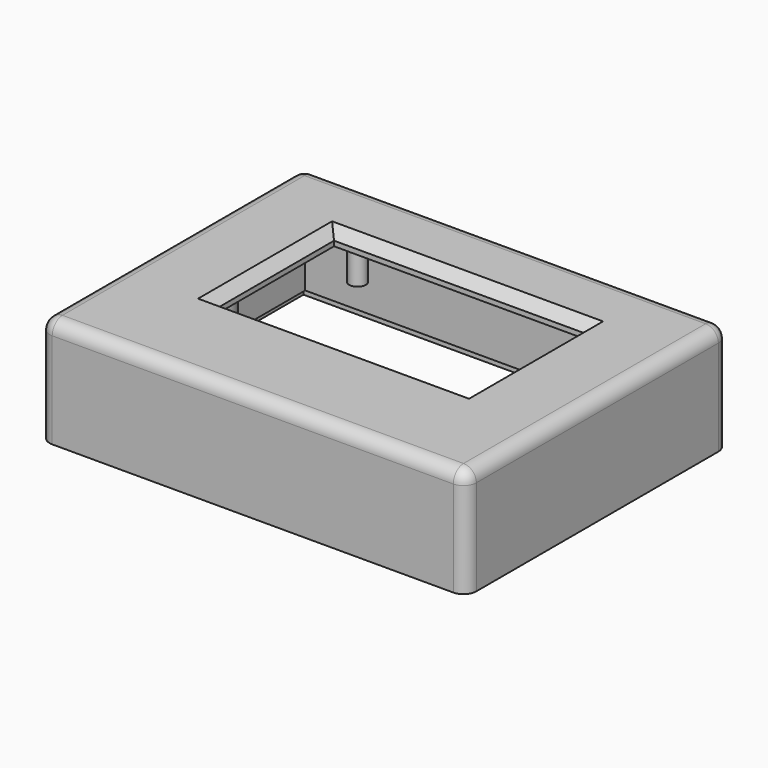
from build123d import *

# Parameters (mm, degrees)
F0_W      = 43.3
F0_H      = 33.3
F1_DEPTH  = 10
F2_W      = 40
F2_H      = 30
F3_DEPTH  = 8.5
F4_W      = 25.5
F4_H      = 15
F5_DEPTH  = 25
F4_R      = 0.85
F6_DEPTH  = 4
F7_W      = 43.3
F7_H      = 33.3
F7_W_2    = 41.7
F7_H_2    = 31.7
F8_DEPTH  = 1
F9_R      = 2
F9_R_2    = 1
F10_DEPTH = 5
F12_SIZE  = 1
F13_R     = 1.3


with BuildPart() as f1:
    # F0 (on Top) → F1 (new body)
    with BuildSketch(Plane.XY):
        Rectangle(F0_W, F0_H)
    extrude(amount=F1_DEPTH)

    # F2 (on face) → F3 (cut)
    with BuildSketch(Plane.XY):
        Rectangle(F2_W, F2_H)
    extrude(amount=F3_DEPTH, mode=Mode.SUBTRACT)

    # F4 (on face) → F5 (cut)
    with BuildSketch(Plane(origin=(0, 0, 8.5), x_dir=(1, 0, 0), z_dir=(0, 0, -1))):
        with Locations((0, -2.1)):
            Rectangle(F4_W, F4_H)
    extrude(amount=-F5_DEPTH, mode=Mode.SUBTRACT)

    # F4 (on face) → F6 (join)
    with BuildSketch(Plane(origin=(0, 0, 8.5), x_dir=(1, 0, 0), z_dir=(0, 0, -1))):
        with Locations((12.2893061021, 12)):
            Circle(F4_R)
        with Locations((-12.2893061021, 12)):
            Circle(F4_R)
        with Locations((-12.2893061021, -12)):
            Circle(F4_R)
        with Locations((12.2893061021, -12)):
            Circle(F4_R)
    extrude(amount=F6_DEPTH)

    # F7 (on face) → F8 (join)
    with BuildSketch(Plane(origin=(0, 0, 0), x_dir=(1, 0, 0), z_dir=(0, 0, -1))):
        Rectangle(F7_W, F7_H)
        Rectangle(F7_W_2, F7_H_2, mode=Mode.SUBTRACT)
    extrude(amount=F8_DEPTH)

    # F9 (on face) → F10 (join)
    with BuildSketch(Plane(origin=(0, 0, 8.5), x_dir=(1, 0, 0), z_dir=(0, 0, -1))):
        with Locations((-17.3809109858, 0)):
            Circle(F9_R)
        with Locations((-17.3809109858, 0)):
            Circle(F9_R_2, mode=Mode.SUBTRACT)
    extrude(amount=F10_DEPTH)

    # F11: F1 across plane


with BuildPart() as f1_1:
    add(f1.part)
    add(f1.part.mirror(Plane.YZ))

    # F12
    f12_edges = [f1_1.edges().sort_by_distance(p)[0] for p in [
        (0, 9.6, 10),
        (-12.75, 2.1, 10),
        (0, -5.4, 10),
        (12.75, 2.1, 10),
    ]]
    chamfer(f12_edges, length=F12_SIZE)

    # F13
    f13_edges = [f1_1.edges().sort_by_distance(p)[0] for p in [
        (-21.65, 16.65, 4.5),
        (21.65, 16.65, 4.5),
        (21.65, -16.65, 4.5),
        (-21.65, -16.65, 4.5),
        (0, -16.65, 10),
        (-21.65, 0, 10),
        (21.65, 0, 10),
        (0, 16.65, 10),
    ]]
    fillet(f13_edges, radius=F13_R)


solid = f1_1.part
